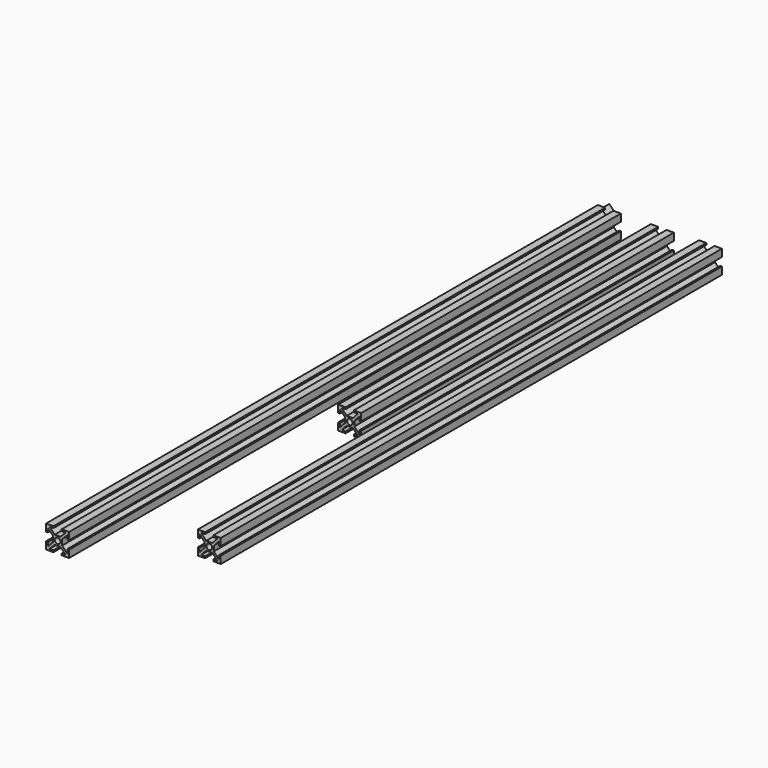
from build123d import *

# Parameters (mm, degrees)
F0_R     = 2.5
F1_DEPTH = 600
F2_DEPTH = 340
F3_DEPTH = 545
F4_DEPTH = 10.5
F5_R     = 2.5
F6_DEPTH = 25


with BuildPart() as f1:
    # F0 (on Front) → F1 (new body)
    with BuildSketch(Plane.XZ):
        Polygon((-6.673659, 56.837713), (-6.673659, 58.371353), (-13.073659, 58.371353), (-13.073659, 51.971353), (-11.540019, 51.971353), (-11.540019, 55.423499), (-6.973659, 50.81497), (-6.973659, 45.927736), (-11.540019, 41.319207), (-11.540019, 44.771353), (-13.073659, 44.771353), (-13.073659, 38.371353), (-6.673659, 38.371353), (-6.673659, 39.904993), (-10.125806, 39.904993), (-5.568781, 44.504101), (-0.578538, 44.504101), (3.978487, 39.904993), (0.526341, 39.904993), (0.526341, 38.371353), (6.926341, 38.371353), (6.926341, 44.771353), (5.392701, 44.771353), (5.392701, 41.319207), (0.826341, 45.927736), (0.826341, 50.81497), (5.392701, 55.423499), (5.392701, 51.971353), (6.926341, 51.971353), (6.926341, 58.371353), (0.526341, 58.371353), (0.526341, 56.837713), (3.978487, 56.837713), (-0.578538, 52.238605), (-5.568781, 52.238605), (-10.125806, 56.837713), align=None)
        with Locations((-3.073659, 48.371353)):
            Circle(F0_R, mode=Mode.SUBTRACT)
    extrude(amount=F1_DEPTH)


with BuildPart() as f2:
    # F0 (on Front) → F2 (new body)
    with BuildSketch(Plane.XZ):
        Polygon((39.479291, 57.221651), (39.479291, 58.744471), (33.079291, 58.744471), (33.079291, 52.344471), (34.602111, 52.344471), (34.602111, 55.807438), (39.052107, 50.972263), (39.052107, 46.51668), (34.602111, 41.681505), (34.602111, 45.144471), (33.079291, 45.144471), (33.079291, 38.744471), (39.479291, 38.744471), (39.479291, 40.267292), (36.016325, 40.267292), (40.384522, 45.013589), (45.774059, 45.013589), (50.142257, 40.267292), (46.679291, 40.267292), (46.679291, 38.744471), (53.079291, 38.744471), (53.079291, 45.144471), (51.55647, 45.144471), (51.55647, 41.681505), (47.106475, 46.51668), (47.106475, 50.972263), (51.55647, 55.807438), (51.55647, 52.344471), (53.079291, 52.344471), (53.079291, 58.744471), (46.679291, 58.744471), (46.679291, 57.221651), (50.142257, 57.221651), (45.774059, 52.475354), (40.384522, 52.475354), (36.016325, 57.221651), align=None)
        with Locations((43.079291, 48.744471)):
            Circle(F0_R, mode=Mode.SUBTRACT)
    extrude(amount=F2_DEPTH)


with BuildPart() as f3:
    # F0 (on Front) → F3 (new body)
    with BuildSketch(Plane.XZ):
        Polygon((81.282554, 58.482975), (81.282554, 60.006263), (74.882554, 60.006263), (74.882554, 53.606263), (76.405842, 53.606263), (76.405842, 57.068762), (80.849527, 52.223459), (80.849527, 47.789068), (76.405842, 42.943765), (76.405842, 46.406263), (74.882554, 46.406263), (74.882554, 40.006263), (81.282554, 40.006263), (81.282554, 41.529551), (77.820056, 41.529551), (82.178607, 46.282027), (87.586501, 46.282027), (91.945053, 41.529551), (88.482554, 41.529551), (88.482554, 40.006263), (94.882554, 40.006263), (94.882554, 46.406263), (93.359266, 46.406263), (93.359266, 42.943765), (88.915582, 47.789068), (88.915582, 52.223459), (93.359266, 57.068762), (93.359266, 53.606263), (94.882554, 53.606263), (94.882554, 60.006263), (88.482554, 60.006263), (88.482554, 58.482975), (91.945053, 58.482975), (87.586501, 53.7305), (82.178607, 53.7305), (77.820056, 58.482975), align=None)
        with Locations((84.882554, 50.006263)):
            Circle(F0_R, mode=Mode.SUBTRACT)
    extrude(amount=F3_DEPTH)


with BuildPart() as f4:
    # F0 (on Front) → F4 (new body)
    with BuildSketch(Plane.XZ):
        Polygon((-11.540019, 51.971353), (-13.073659, 51.971353), (-13.073659, 44.771353), (-11.540019, 44.771353), (-11.540019, 41.319207), (-6.973659, 45.927736), (-6.973659, 50.81497), (-11.540019, 55.423499), align=None)
    extrude(amount=-F4_DEPTH)

    # F5 (on face) → F6 (cut)
    with BuildSketch(Plane(origin=(-13.073659, 0, 0), x_dir=(0, -1, 0), z_dir=(-1, 0, 0))):
        with Locations((-5.25, 48.371353)):
            Circle(F5_R)
    extrude(amount=-F6_DEPTH, mode=Mode.SUBTRACT)


solid = Compound([f1.part, f2.part, f3.part, f4.part])
